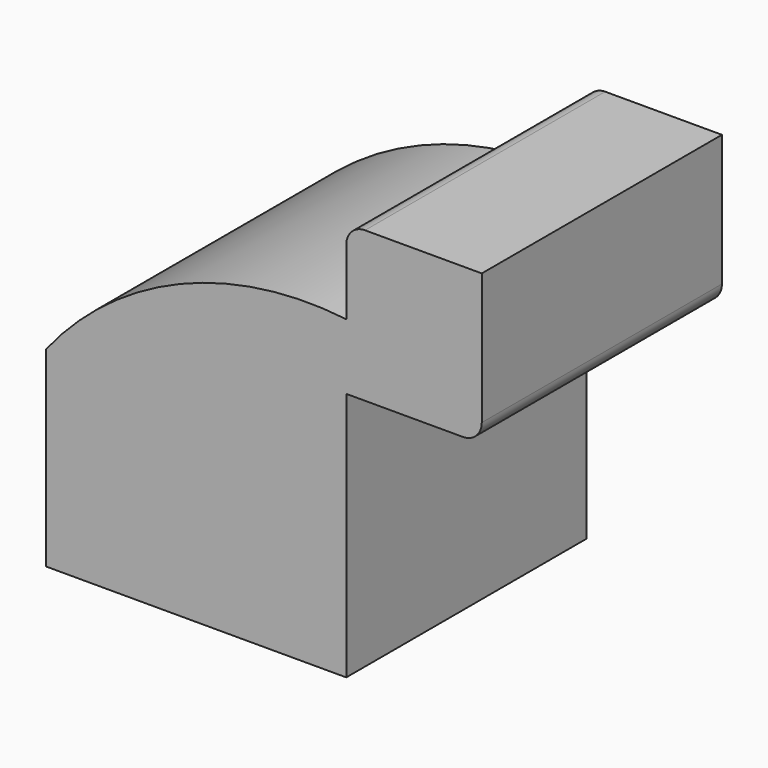
from build123d import *

# Parameters (mm, degrees)
F1_DEPTH = 101.6


with BuildPart() as f1:
    # F0 (on Front) → F1 (new body)
    with BuildSketch(Plane.XZ):
        Polygon((-50.8, -32.374417), (50.8, -32.374417), (50.8, 32.374417), (14.084613, 32.374417), (-50.8, 32.374417), align=None)
        with BuildLine():
            Line((14.084613, 32.374417), (50.8, 32.374417))
            Line((50.8, 32.374417), (50.8, 52.120494))
            Line((50.8, 52.120494), (50.8, 74.345494))
            ThreePointArc((50.8, 74.345494), (24.954765, 64.252521), (14.084613, 38.724417))
            Line((14.084613, 38.724417), (14.084613, 32.374417))
        make_face()
        with BuildLine():
            ThreePointArc((50.8, 74.345494), (-5.45833, 66.573015), (-50.8, 32.374417))
            Line((-50.8, 32.374417), (14.084613, 32.374417))
            Line((14.084613, 32.374417), (14.084613, 38.724417))
            ThreePointArc((14.084613, 38.724417), (24.954765, 64.252521), (50.8, 74.345494))
        make_face()
        with BuildLine():
            Line((50.8, 74.345494), (50.8, 52.120494))
            Line((50.8, 52.120494), (90.314029, 52.120494))
            ThreePointArc((90.314029, 52.120494), (94.804157, 53.980366), (96.664029, 58.470494))
            Line((96.664029, 58.470494), (96.664029, 102.920494))
            Line((96.664029, 102.920494), (57.15, 102.920494))
            ThreePointArc((57.15, 102.920494), (52.659872, 101.060622), (50.8, 96.570494))
            Line((50.8, 96.570494), (50.8, 74.345494))
        make_face()
    extrude(amount=F1_DEPTH)


solid = f1.part
